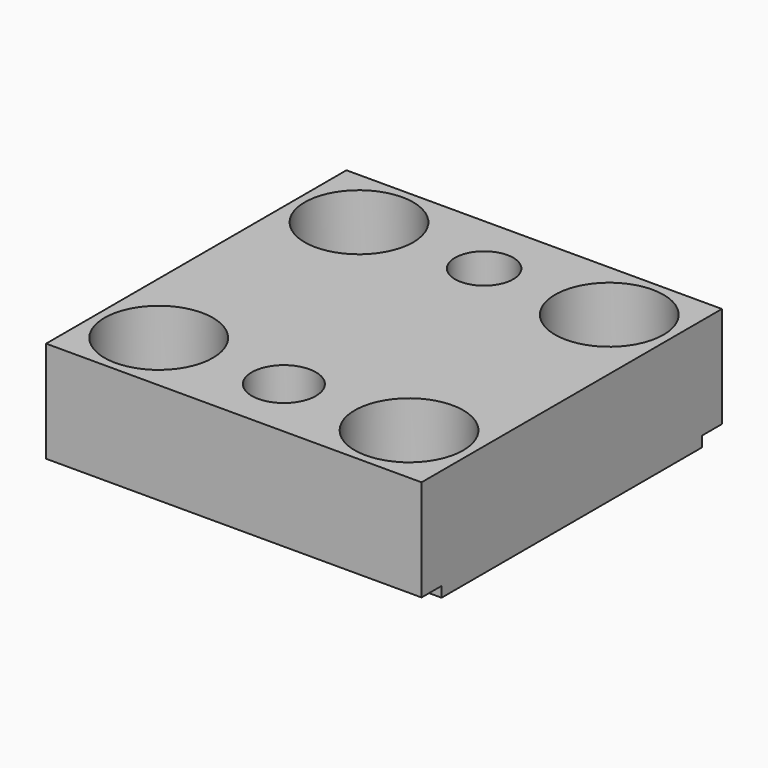
from build123d import *

# Parameters (mm, degrees)
F1_DEPTH = 90
F2_R     = 13
F2_R_2   = 7.687325
F2_R_3   = 6.979282
F3_DEPTH = 26.8


with BuildPart() as f1:
    # F0 (on Right) → F1 (new body)
    with BuildSketch(Plane.YZ):
        Polygon((-43.438557, -7.128176), (-43.438557, -9.628176), (34.561443, -9.628176), (34.561443, -7.128176), (40.561443, -7.128176), (40.561443, 17.171824), (-49.438557, 17.171824), (-49.438557, -7.128176), align=None)
    extrude(amount=F1_DEPTH)

    # F2 (on face) → F3 (cut, through all)
    with BuildSketch(Plane.XY.offset(17.171824)):
        with Locations((75, 25.561443)):
            Circle(F2_R)
        with Locations((15, -34.438557)):
            Circle(F2_R)
        with Locations((75, -34.438557)):
            Circle(F2_R)
        with Locations((45, -34.438557)):
            Circle(F2_R_2)
        with Locations((45, 25.561443)):
            Circle(F2_R_3)
        with Locations((15, 25.561443)):
            Circle(F2_R)
    extrude(amount=-F3_DEPTH, mode=Mode.SUBTRACT)


solid = f1.part
